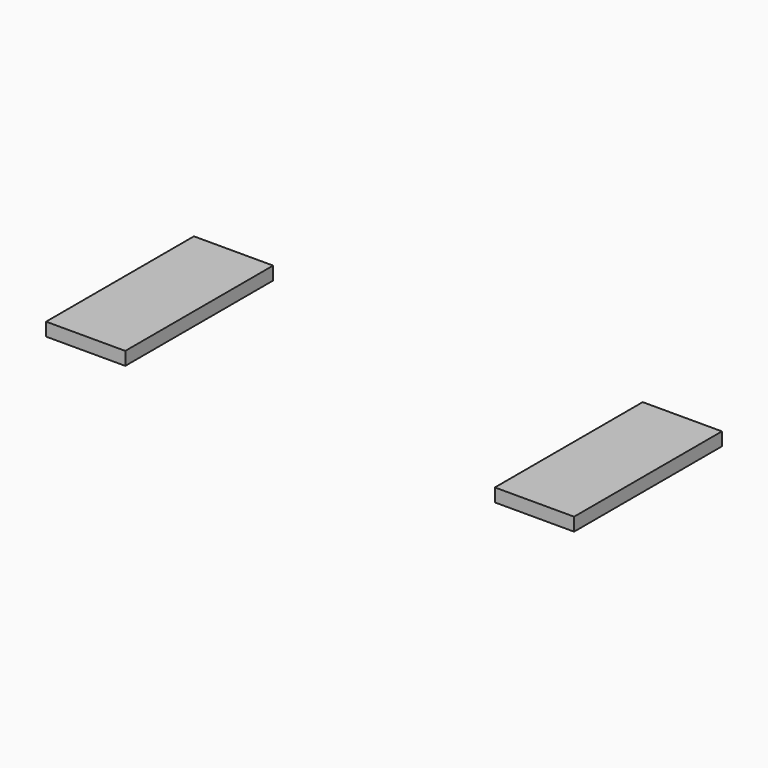
from build123d import *

# Parameters (mm, degrees)
SKETCH022_W  = 0.6
SKETCH022_H  = 1.4
PAD014_DEPTH = 0.1


with BuildPart() as terminal001:
    # Sketch022 → Pad014 (new body)
    with BuildSketch(Plane.XY):
        with Locations((-1.7, 0)):
            Rectangle(SKETCH022_W, SKETCH022_H)
    extrude(amount=PAD014_DEPTH)


with BuildPart() as fusion001:
    # Mirror001: instance of Terminal001
    add(terminal001.part.mirror(Plane(origin=(0, 0, 0), x_dir=(0, -1, 0), z_dir=(1, 0, 0))))

    # Fusion001: union Terminal001
    add(terminal001.part)


solid = fusion001.part
